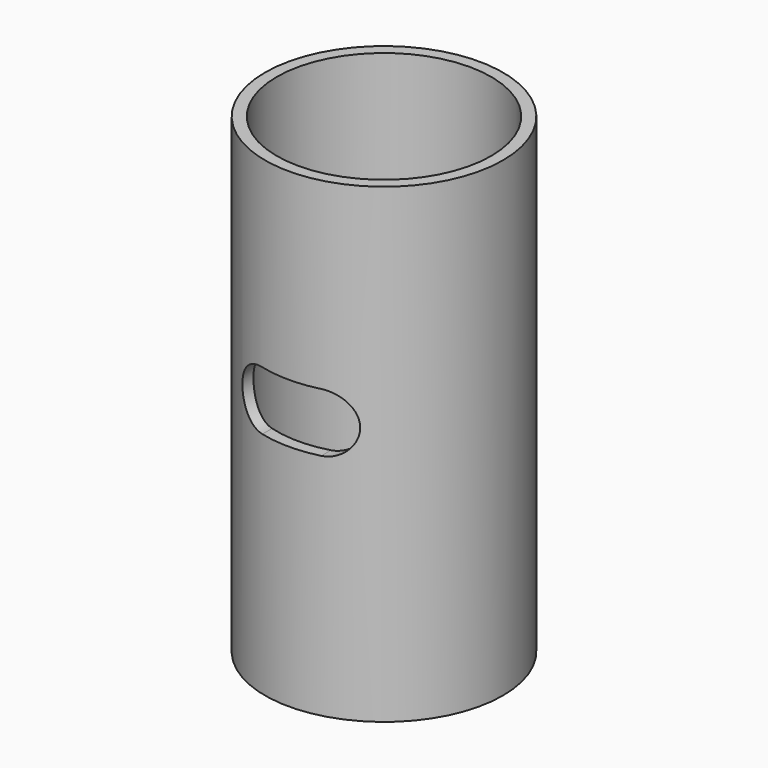
from build123d import *

# Parameters (mm, degrees)
F0_R     = 6.4135
F0_R_2   = 5.7785
F1_DEPTH = 25.4
F3_DEPTH = 25.4


with BuildPart() as f1:
    # F0 (on Top) → F1 (new body)
    with BuildSketch(Plane.XY):
        Circle(F0_R)
        Circle(F0_R_2, mode=Mode.SUBTRACT)
    extrude(amount=F1_DEPTH)

    # F2 (on Front) → F3 (cut)
    with BuildSketch(Plane.XZ):
        with BuildLine():
            Line((-1.5875, 12.3317), (0, 12.3317))
            Line((0, 12.3317), (0, 13.9192))
            ThreePointArc((0, 13.9192), (-0.4649679849, 12.7966679849), (-1.5875, 12.3317))
        make_face()
        with BuildLine():
            Line((0, 13.9192), (0, 12.3317))
            Line((0, 12.3317), (1.5875, 12.3317))
            ThreePointArc((1.5875, 12.3317), (0.4649679849, 12.7966679849), (0, 13.9192))
        make_face()
        with BuildLine():
            ThreePointArc((1.5875, 15.5067), (0.4649679849, 15.0417320151), (0, 13.9192))
            Line((0, 13.9192), (1.5875, 13.9192))
            Line((1.5875, 13.9192), (1.5875, 15.5067))
        make_face()
        with BuildLine():
            ThreePointArc((-1.5875, 12.3317), (-0.4649679849, 12.7966679849), (0, 13.9192))
            Line((0, 13.9192), (-1.5875, 13.9192))
            Line((-1.5875, 13.9192), (-1.5875, 12.3317))
        make_face()
        with BuildLine():
            Line((-1.5875, 13.9192), (0, 13.9192))
            ThreePointArc((0, 13.9192), (-0.4649679849, 15.0417320151), (-1.5875, 15.5067))
            ThreePointArc((-1.5875, 15.5067), (-3.175, 13.9192), (-1.5875, 12.3317))
            Line((-1.5875, 12.3317), (-1.5875, 13.9192))
        make_face()
        with BuildLine():
            ThreePointArc((-1.5875, 15.5067), (-0.4649679849, 15.0417320151), (0, 13.9192))
            ThreePointArc((0, 13.9192), (0.4649679849, 15.0417320151), (1.5875, 15.5067))
            Line((1.5875, 15.5067), (-1.5875, 15.5067))
        make_face()
        with BuildLine():
            Line((1.5875, 13.9192), (0, 13.9192))
            ThreePointArc((0, 13.9192), (0.4649679849, 12.7966679849), (1.5875, 12.3317))
            Line((1.5875, 12.3317), (1.5875, 13.9192))
        make_face()
        with BuildLine():
            Line((1.5875, 13.9192), (1.5875, 12.3317))
            ThreePointArc((1.5875, 12.3317), (2.7100320151, 12.7966679849), (3.175, 13.9192))
            ThreePointArc((3.175, 13.9192), (2.7100320151, 15.0417320151), (1.5875, 15.5067))
            Line((1.5875, 15.5067), (1.5875, 13.9192))
        make_face()
    extrude(amount=F3_DEPTH, mode=Mode.SUBTRACT)


solid = f1.part
